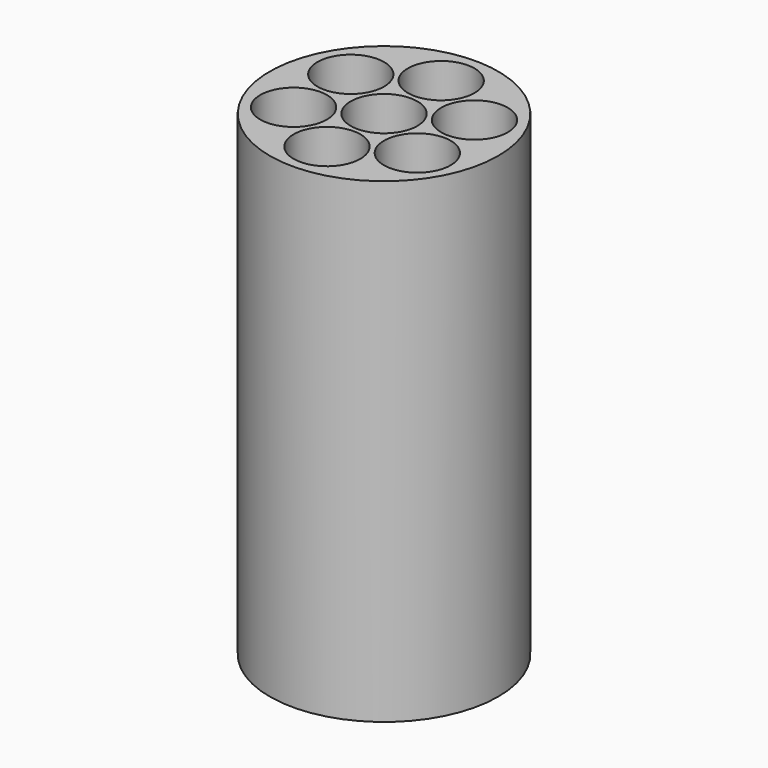
from build123d import *

# Parameters (mm, degrees)
F1_R     = 1.2
F2_DEPTH = 5
F0_R     = 0.35
F3_DEPTH = 5.001


with BuildPart() as f2:
    # F1 (on Top) → F2 (new body)
    with BuildSketch(Plane.XY):
        Circle(F1_R)
    extrude(amount=F2_DEPTH)

    # F0 (on Top) → F3 (cut, through all)
    with BuildSketch(Plane.XY):
        Circle(F0_R)
        with Locations((0, 0.750083)):
            Circle(F0_R)
        with Locations((0.649655, 0.37518)):
            Circle(F0_R)
        with Locations((0.649525, -0.375058)):
            Circle(F0_R)
        with Locations((0, -0.748877)):
            Circle(F0_R)
        with Locations((-0.649772, -0.375058)):
            Circle(F0_R)
        with Locations((-0.649465, 0.375007)):
            Circle(F0_R)
    extrude(amount=F3_DEPTH, mode=Mode.SUBTRACT)


solid = f2.part
